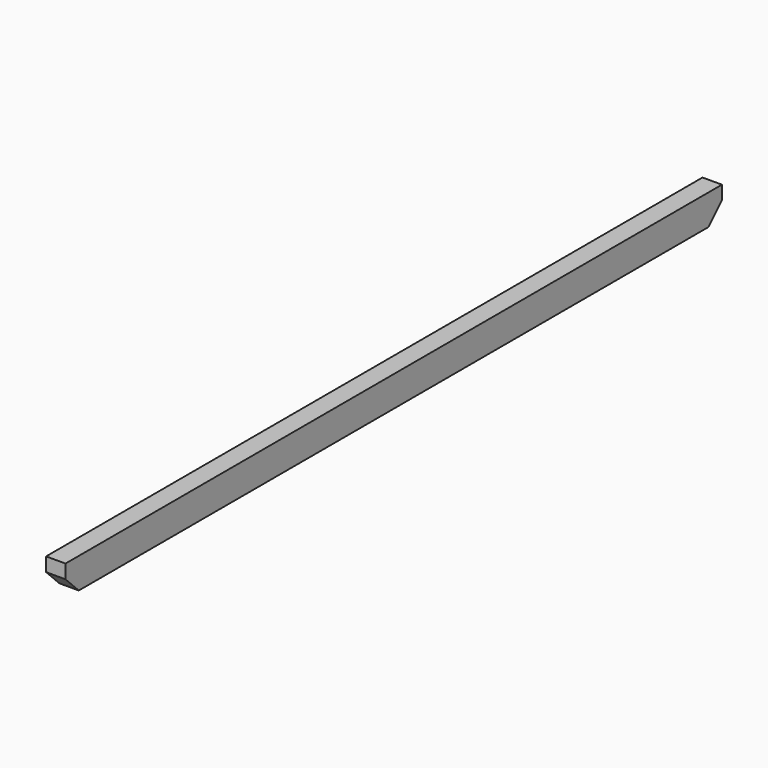
from build123d import *

# Parameters (mm, degrees)
F0_W     = 88.9
F0_H     = 139.7
F1_DEPTH = 1879.6
F2_SIZE  = 76.2


with BuildPart() as f1:
    # F0 (on Front) → F1 (new body, symmetric)
    with BuildSketch(Plane.XZ):
        Rectangle(F0_W, F0_H)
    extrude(amount=F1_DEPTH, both=True)

    # F2
    f2_edges = [f1.edges().sort_by_distance(p)[0] for p in [
        (0, -1879.6, -69.85),
        (0, 1879.6, -69.85),
    ]]
    chamfer(f2_edges, length=F2_SIZE)


solid = f1.part
